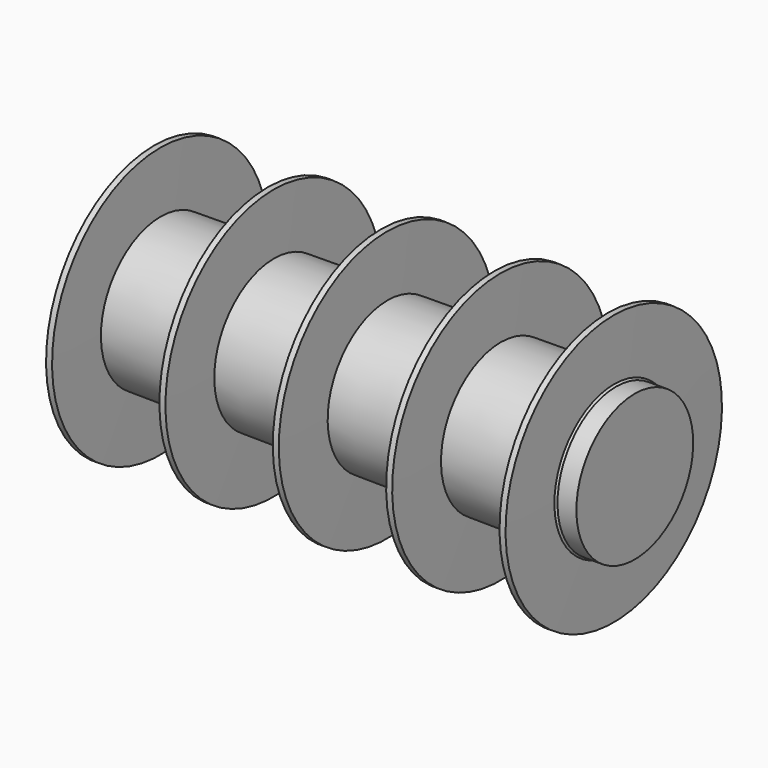
from build123d import *


with BuildPart() as f1:
    # F0 (on Front) → F1 (revolve)
    with BuildSketch(Plane.XZ):
        Polygon((267.880581, 85.000003), (265.880581, 87.000003), (265.380581, 157.500003), (258.380581, 157.500003), (257.887674, 88.000003), (133.880581, 87.000003), (133.380581, 157.500003), (126.380581, 157.500003), (125.887674, 88.000003), (1.880581, 87.000003), (1.380581, 157.500003), (-5.619419, 157.500003), (-6.112326, 88.000003), (-130.119419, 87.000003), (-130.619419, 157.500003), (-137.619419, 157.500003), (-138.112326, 88.000003), (-262.119419, 87.000003), (-262.619419, 157.500003), (-269.619419, 157.500003), (-270.119419, 87.000003), (-272.119419, 85.000003), (-294.119419, 85.000003), (-294.119419, 3e-06), (289.880581, 3e-06), (289.880581, 85.000003), align=None)
    revolve(axis=Axis((-2.119419, 0, 3e-06), (1, 0, 0)))


solid = f1.part
